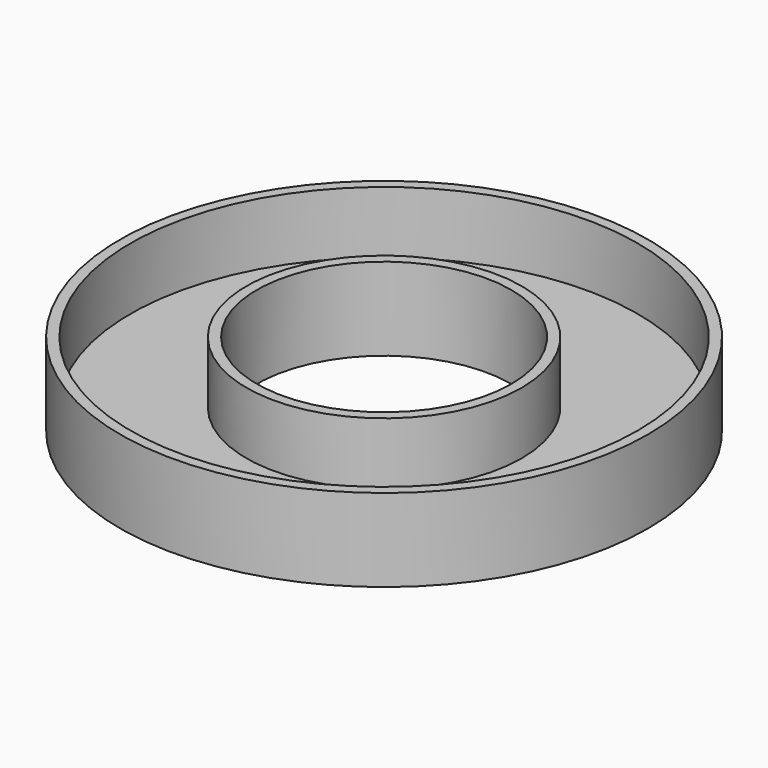
from build123d import *

# Parameters (mm, degrees)
F0_R     = 32.385
F0_R_2   = 15.621
F1_DEPTH = 2.54
F2_R     = 32.385
F2_R_2   = 31.115
F3_DEPTH = 10.16
F4_R     = 16.891
F4_R_2   = 15.621
F5_DEPTH = 10.16


with BuildPart() as f1:
    # F0 (on Top) → F1 (new body)
    with BuildSketch(Plane.XY):
        Circle(F0_R)
        Circle(F0_R_2, mode=Mode.SUBTRACT)
    extrude(amount=F1_DEPTH)

    # F2 (on Top) → F3 (join)
    with BuildSketch(Plane.XY):
        Circle(F2_R)
        Circle(F2_R_2, mode=Mode.SUBTRACT)
    extrude(amount=F3_DEPTH)

    # F4 (on Top) → F5 (join)
    with BuildSketch(Plane.XY):
        Circle(F4_R)
        Circle(F4_R_2, mode=Mode.SUBTRACT)
    extrude(amount=F5_DEPTH)


solid = f1.part
